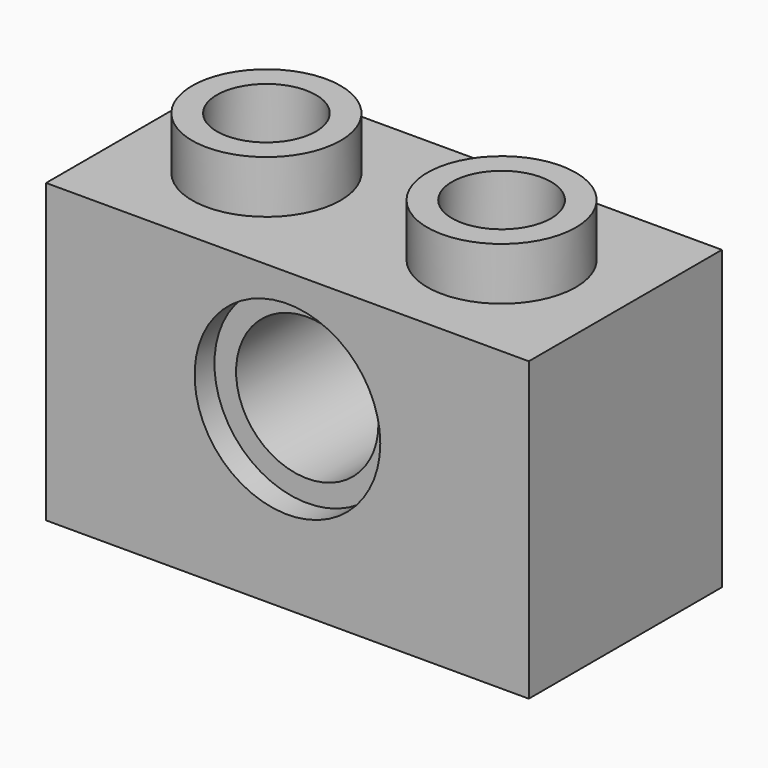
from build123d import *

# Parameters (mm, degrees)
F0_W     = 15.6
F0_H     = 9.6
F0_R     = 3
F0_R_2   = 2.3
F1_DEPTH = 7.8
F2_R     = 2.4
F2_R_2   = 1.6
F3_DEPTH = 1.7
F5_DEPTH = 2
F6_DEPTH = 0.8
F7_R     = 3
F7_R_2   = 2.3
F8_DEPTH = 0.8


with BuildPart() as f1:
    # F0 (on Front) → F1 (new body)
    with BuildSketch(Plane.XZ):
        with Locations((-5.3637987003, 2.2607615549)):
            Rectangle(F0_W, F0_H)
        with Locations((-5.3637987003, 3.1607615549)):
            Circle(F0_R, mode=Mode.SUBTRACT)
        with Locations((-5.3637987003, 3.1607615549)):
            Circle(F0_R)
        with Locations((-5.3637987003, 3.1607615549)):
            Circle(F0_R_2, mode=Mode.SUBTRACT)
    extrude(amount=F1_DEPTH)

    # F2 (on face) → F3 (join)
    with BuildSketch(Plane.XY.offset(7.0607615549)):
        with Locations((-1.5637987003, -3.9)):
            Circle(F2_R)
        with Locations((-1.5637987003, -3.9)):
            Circle(F2_R_2, mode=Mode.SUBTRACT)
        with Locations((-9.1637987003, -3.9)):
            Circle(F2_R)
        with Locations((-9.1637987003, -3.9)):
            Circle(F2_R_2, mode=Mode.SUBTRACT)
    extrude(amount=F3_DEPTH)

    # F4 (on face) → F5 (cut)
    with BuildSketch(Plane(origin=(0, 0, -2.5392384451), x_dir=(1, 0, 0), z_dir=(0, 0, -1))):
        Polygon((-11.5637987003, 6.2), (-11.5637987003, 3.9), (-11.5637987003, 1.6), (-5.3637987003, 1.6), (0.8362012997, 1.6), (0.8362012997, 3.9), (0.8362012997, 6.2), (-5.3637987003, 6.2), align=None)
    extrude(amount=-F5_DEPTH, mode=Mode.SUBTRACT)

    # F0 (on Front) → F6 (cut)
    with BuildSketch(Plane.XZ):
        with Locations((-5.3637987003, 3.1607615549)):
            Circle(F0_R)
        with Locations((-5.3637987003, 3.1607615549)):
            Circle(F0_R_2, mode=Mode.SUBTRACT)
    extrude(amount=F6_DEPTH, mode=Mode.SUBTRACT)

    # F7 (on face) → F8 (cut)
    with BuildSketch(Plane.XZ.offset(7.8)):
        with Locations((-5.3637987003, 3.1607615549)):
            Circle(F7_R)
        with Locations((-5.3637987003, 3.1607615549)):
            Circle(F7_R_2, mode=Mode.SUBTRACT)
    extrude(amount=-F8_DEPTH, mode=Mode.SUBTRACT)


solid = f1.part
